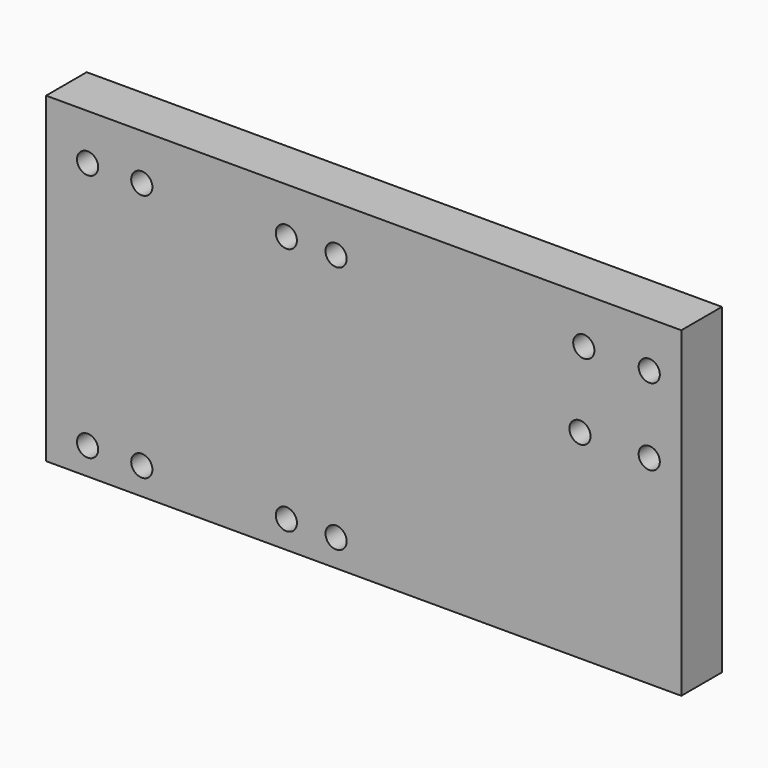
from build123d import *

# Parameters (mm, degrees)
F0_W     = 150.0124
F0_H     = 75.9968
F0_R     = 2.5019
F1_DEPTH = 11.9888


with BuildPart() as f1:
    # F0 (on Front) → F1 (new body)
    with BuildSketch(Plane.XZ):
        with Locations((18.262604, -8.991599)):
            Rectangle(F0_W, F0_H)
        with Locations((-46.939202, -40.581521)):
            Circle(F0_R, mode=Mode.SUBTRACT)
        with Locations((-34.137603, -40.581521)):
            Circle(F0_R, mode=Mode.SUBTRACT)
        with Locations((0, -40.581521)):
            Circle(F0_R, mode=Mode.SUBTRACT)
        with Locations((11.745797, -40.581521)):
            Circle(F0_R, mode=Mode.SUBTRACT)
        with Locations((-46.939202, 18.135602)):
            Circle(F0_R, mode=Mode.SUBTRACT)
        with Locations((-34.137603, 18.135602)):
            Circle(F0_R, mode=Mode.SUBTRACT)
        with Locations((0, 18.135602)):
            Circle(F0_R, mode=Mode.SUBTRACT)
        with Locations((11.745797, 18.135602)):
            Circle(F0_R, mode=Mode.SUBTRACT)
        with Locations((69.333881, 0)):
            Circle(F0_R, mode=Mode.SUBTRACT)
        with Locations((85.692368, 0)):
            Circle(F0_R, mode=Mode.SUBTRACT)
        with Locations((70.242681, 18.135602)):
            Circle(F0_R, mode=Mode.SUBTRACT)
        with Locations((85.692368, 18.135602)):
            Circle(F0_R, mode=Mode.SUBTRACT)
    extrude(amount=F1_DEPTH)


solid = f1.part
